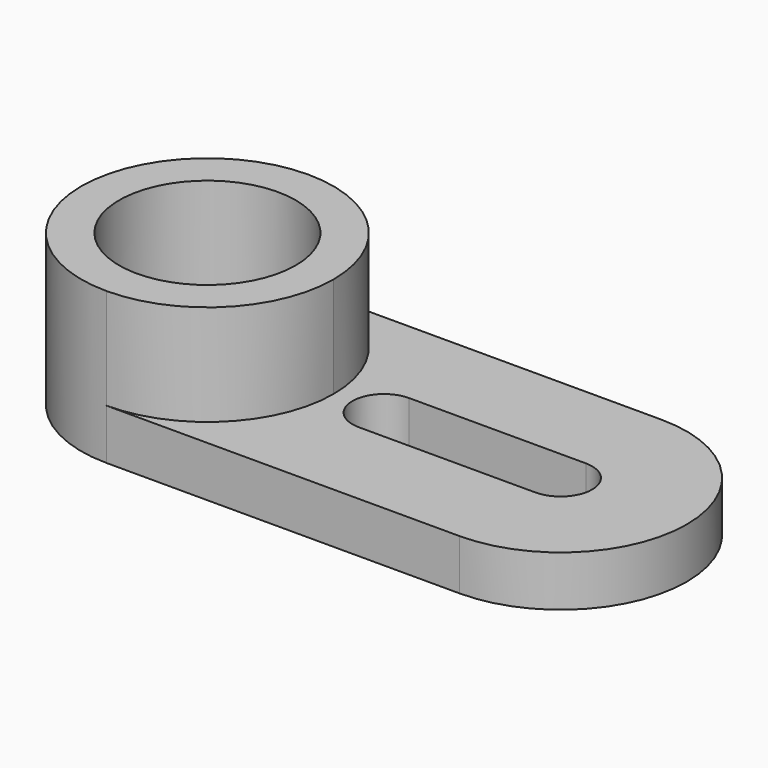
from build123d import *

# Parameters (mm, degrees)
F0_R     = 35
F1_DEPTH = 20
F2_DEPTH = 60


with BuildPart() as f1:
    # F0 (on Top) → F1 (new body)
    with BuildSketch(Plane.XY):
        with BuildLine():
            ThreePointArc((0, 50), (35.355339, 35.355339), (50, 0))
            ThreePointArc((50, 0), (35.355339, -35.355339), (0, -50))
            Line((0, -50), (140, -50))
            ThreePointArc((140, -50), (190, 0), (140, 50))
            Line((140, 50), (0, 50))
        make_face()
        with BuildLine():
            Line((70, 12.5), (140, 12.5))
            ThreePointArc((140, 12.5), (152.5, 0), (140, -12.5))
            Line((140, -12.5), (70, -12.5))
            ThreePointArc((70, -12.5), (57.5, 0), (70, 12.5))
        make_face(mode=Mode.SUBTRACT)
        with BuildLine():
            ThreePointArc((0, -50), (35.355339, -35.355339), (50, 0))
            ThreePointArc((50, 0), (35.355339, 35.355339), (0, 50))
            ThreePointArc((0, 50), (-50, 0), (0, -50))
        make_face()
        Circle(F0_R, mode=Mode.SUBTRACT)
    extrude(amount=F1_DEPTH)

    # F0 (on Top) → F2 (join)
    with BuildSketch(Plane.XY):
        with BuildLine():
            ThreePointArc((0, -50), (35.355339, -35.355339), (50, 0))
            ThreePointArc((50, 0), (35.355339, 35.355339), (0, 50))
            ThreePointArc((0, 50), (-50, 0), (0, -50))
        make_face()
        Circle(F0_R, mode=Mode.SUBTRACT)
    extrude(amount=F2_DEPTH)


solid = f1.part
